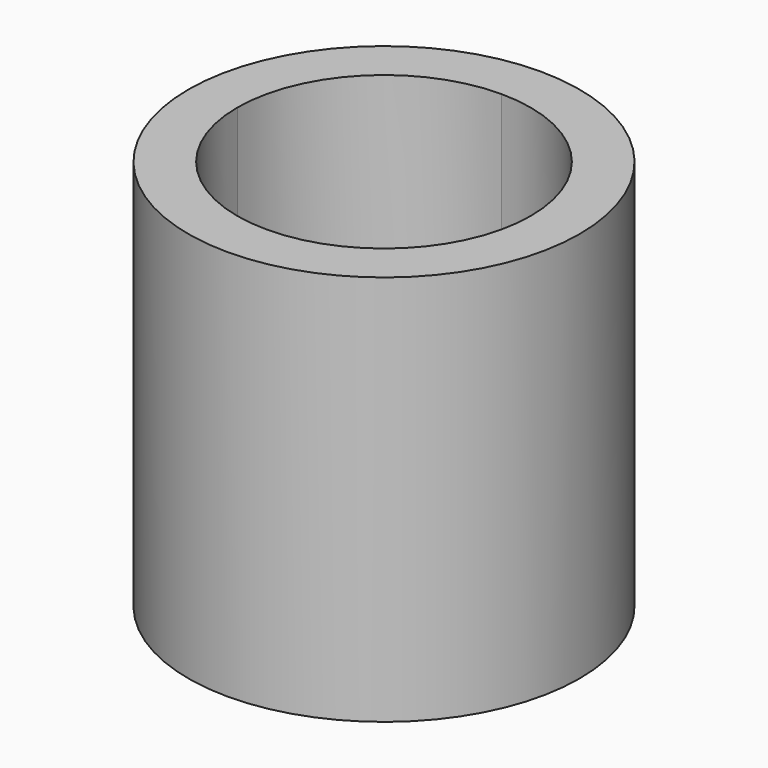
from build123d import *

# Parameters (mm, degrees)
F0_R     = 4
F1_DEPTH = 8
F3_DEPTH = 4


with BuildPart() as f1:
    # F0 (on Top) → F1 (new body)
    with BuildSketch(Plane.XY):
        Circle(F0_R)
    extrude(amount=F1_DEPTH)

    # F2 (on face) → F3 (cut)
    with BuildSketch(Plane.XY.offset(8)):
        with BuildLine():
            ThreePointArc((3, 0), (2.12132, 2.12132), (0, 3))
            ThreePointArc((0, 3), (-2.12132, 2.12132), (-3, 0))
            ThreePointArc((-3, 0), (-2.12132, -2.12132), (0, -3))
            ThreePointArc((0, -3), (2.12132, -2.12132), (3, 0))
        make_face()
    extrude(amount=-F3_DEPTH, mode=Mode.SUBTRACT)


solid = f1.part
